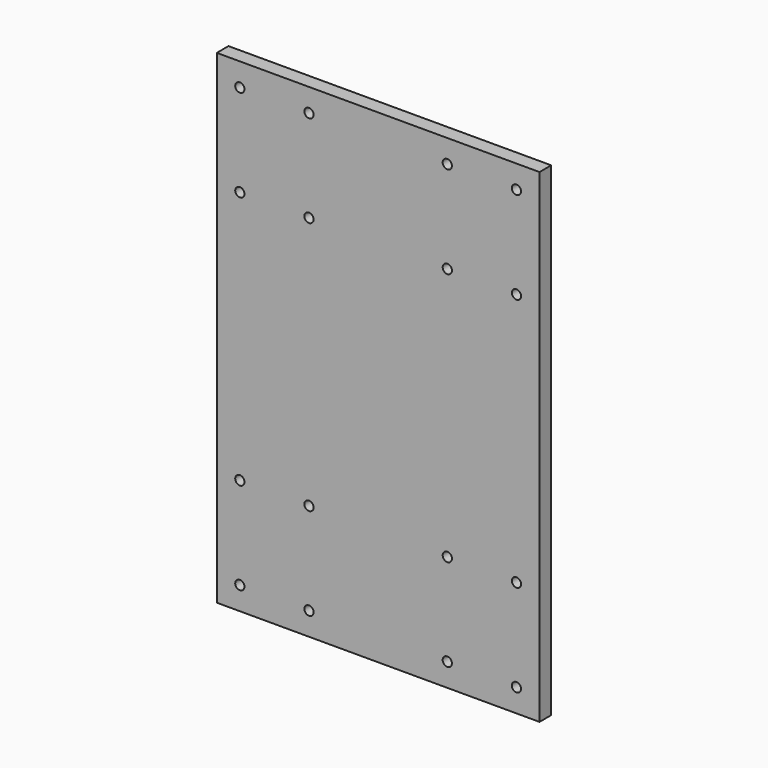
from build123d import *

# Parameters (mm, degrees)
F0_W     = 70
F0_H     = 105
F0_R     = 1
F1_DEPTH = 3.175


with BuildPart() as f1:
    # F0 (on Front) → F1 (new body)
    with BuildSketch(Plane.XZ):
        Rectangle(F0_W, F0_H)
        with Locations((-30, -47.5)):
            Circle(F0_R, mode=Mode.SUBTRACT)
        with Locations((-30, -27.5)):
            Circle(F0_R, mode=Mode.SUBTRACT)
        with Locations((-15, -47.5)):
            Circle(F0_R, mode=Mode.SUBTRACT)
        with Locations((-15, -27.5)):
            Circle(F0_R, mode=Mode.SUBTRACT)
        with Locations((15, -47.5)):
            Circle(F0_R, mode=Mode.SUBTRACT)
        with Locations((15, -27.5)):
            Circle(F0_R, mode=Mode.SUBTRACT)
        with Locations((30, -47.5)):
            Circle(F0_R, mode=Mode.SUBTRACT)
        with Locations((30, -27.5)):
            Circle(F0_R, mode=Mode.SUBTRACT)
        with Locations((-30, 27.5)):
            Circle(F0_R, mode=Mode.SUBTRACT)
        with Locations((-30, 47.5)):
            Circle(F0_R, mode=Mode.SUBTRACT)
        with Locations((-15, 27.5)):
            Circle(F0_R, mode=Mode.SUBTRACT)
        with Locations((-15, 47.5)):
            Circle(F0_R, mode=Mode.SUBTRACT)
        with Locations((15, 27.5)):
            Circle(F0_R, mode=Mode.SUBTRACT)
        with Locations((15, 47.5)):
            Circle(F0_R, mode=Mode.SUBTRACT)
        with Locations((30, 27.5)):
            Circle(F0_R, mode=Mode.SUBTRACT)
        with Locations((30, 47.5)):
            Circle(F0_R, mode=Mode.SUBTRACT)
    extrude(amount=F1_DEPTH)


solid = f1.part
